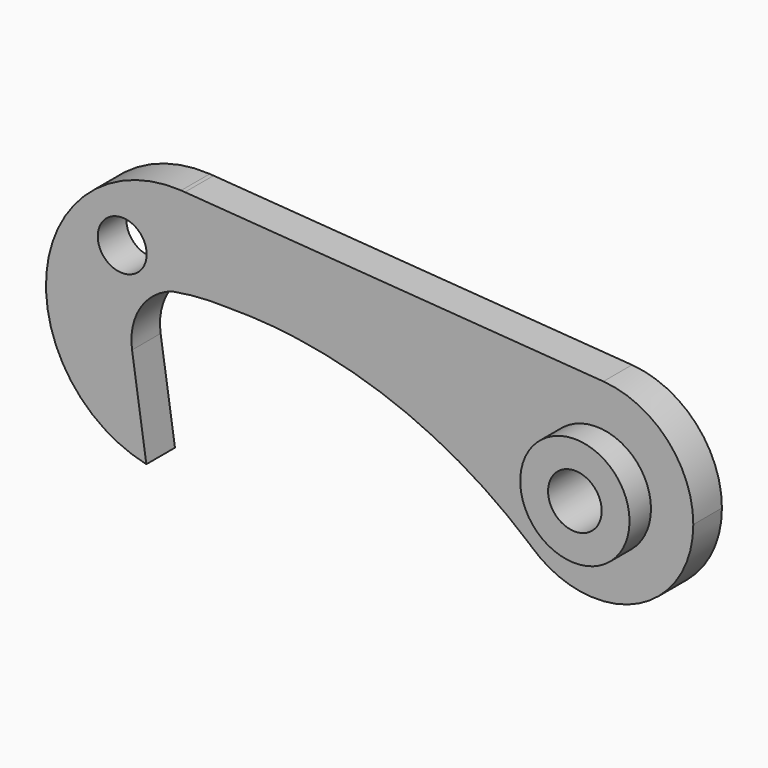
from build123d import *

# Parameters (mm, degrees)
F0_R     = 2.733615219
F0_R_2   = 3
F1_DEPTH = 4
F2_R     = 6.1140658309
F2_R_2   = 3
F3_DEPTH = 3


with BuildPart() as f1:
    # F0 (on Front) → F1 (new body)
    with BuildSketch(Plane.XZ):
        with BuildLine():
            ThreePointArc((-20.9291024725, 3.9184624391), (-25.5731023406, 11.0220372274), (-33.4257613217, 14.2412384443))
            Line((-33.4257613217, 14.2412384443), (-33.8473095456, 14.2720264872))
            ThreePointArc((-33.8473095456, 14.2720264872), (-48.8397789722, 1.9540051753), (-37.7431354391, -13.9636671057))
            Line((-37.7431354391, -13.9636671057), (-39.344081143, -3.2314471709))
            ThreePointArc((-39.344081143, -3.2314471709), (-38.4309864787, 1.2020468529), (-34.8697970186, 3.9962445472))
            ThreePointArc((-34.8697970186, 3.9962445472), (-31.8036791498, 4.3867256224), (-28.7131243857, 4.4317312401))
            ThreePointArc((-28.7131243857, 4.4317312401), (-24.811331448, 4.3234463104), (-20.9291024725, 3.9184624391))
        make_face()
        with Locations((-40.4446981847, 6.723803468)):
            Circle(F0_R, mode=Mode.SUBTRACT)
        with BuildLine():
            ThreePointArc((5.1346311332, -7.8763348549), (2.6715056736, 4.3819848217), (13.3886933806, 10.8221149428))
            Line((13.3886933806, 10.8221149428), (-33.4257613217, 14.2412384443))
            ThreePointArc((-33.4257613217, 14.2412384443), (-25.5731023406, 11.0220372274), (-20.9291024725, 3.9184624391))
            ThreePointArc((-20.9291024725, 3.9184624391), (-7.0573737231, -0.1230384341), (5.1346311332, -7.8763348549))
        make_face()
        with BuildLine():
            ThreePointArc((13.4524496929, -10.8172695714), (20.5673366745, -7.3645945031), (23.4492335658, 0))
            ThreePointArc((23.4492335658, 0), (20.5456038096, 7.3880417001), (13.3886933806, 10.8221149428))
            ThreePointArc((13.3886933806, 10.8221149428), (2.6715056736, 4.3819848217), (5.1346311332, -7.8763348549))
            ThreePointArc((5.1346311332, -7.8763348549), (5.2764555881, -8.0083454106), (5.4206145263, -8.137802598))
            ThreePointArc((5.4206145263, -8.137802598), (5.901055097, -8.5116123819), (6.3773961579, -8.8906322891))
            ThreePointArc((6.3773961579, -8.8906322891), (9.0400253079, -10.2509332643), (11.972827524, -10.8328988092))
            Line((11.972827524, -10.8328988092), (13.4524496929, -10.8172695714))
        make_face()
        with Locations((12.5982933263, 0)):
            Circle(F0_R_2, mode=Mode.SUBTRACT)
    extrude(amount=F1_DEPTH)

    # F2 (on face) → F3 (join)
    with BuildSketch(Plane.XZ.offset(4)):
        with Locations((12.5982933263, 0)):
            Circle(F2_R)
        with Locations((12.5982933263, 0)):
            Circle(F2_R_2, mode=Mode.SUBTRACT)
    extrude(amount=F3_DEPTH)


solid = f1.part
